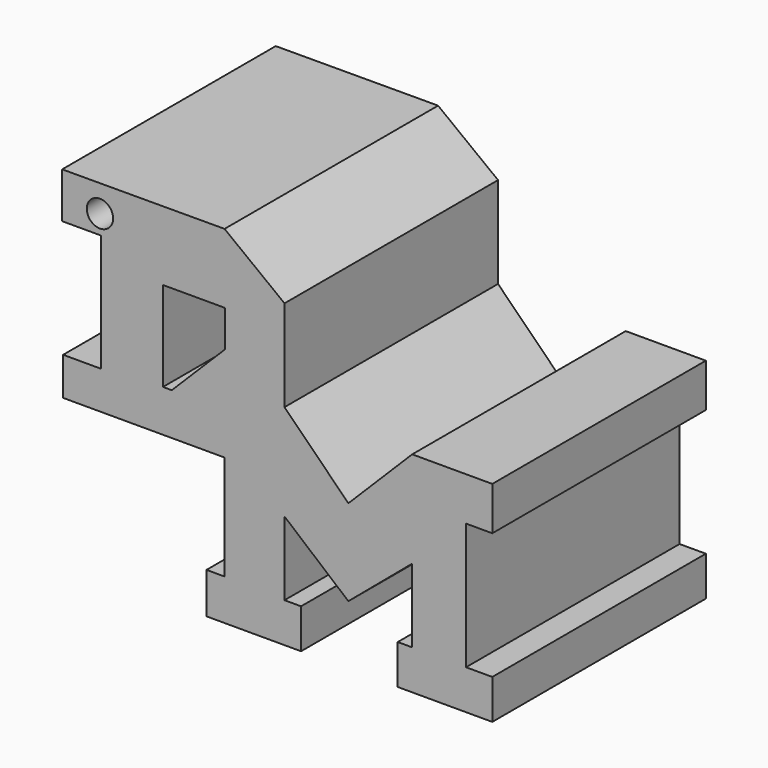
from build123d import *

# Parameters (mm, degrees)
F0_W     = 5.919209
F0_H     = 8.541538
F0_R     = 1.251395
F1_DEPTH = 12.7
F2_SIZE  = 5.08


with BuildPart() as f1:
    # F0 (on Front) → F1 (new body, symmetric)
    with BuildSketch(Plane.XZ):
        Polygon((-5.705478, 19.156427), (-21.156731, 19.119902), (-21.156731, 17.007546), (-21.156731, 14.773603), (-17.477301, 14.774974), (-17.477301, 3.613727), (-21.065827, 3.613727), (-21.065827, 0), (-5.71827, 0), (-3.851344, 0), (0, 6.075916), (0, 14.774974), align=None)
        with Locations((-8.607242, 8.278721)):
            Rectangle(F0_W, F0_H, mode=Mode.SUBTRACT)
        with Locations((-17.562349, 16.578252)):
            Circle(F0_R, mode=Mode.SUBTRACT)
        Polygon((6.075916, 0), (0, 6.075916), (-3.851344, 0), (-5.71827, 0), (-5.71827, -2.018174), (-5.71827, -9.968552), (-7.422996, -9.968552), (-7.422996, -13.863573), (1.574568, -13.863573), (1.574568, -10.095728), (0, -10.095728), (0, -3.080508), (6.075916, -8.201027), (12.151833, -3.080508), (12.151833, -10.095728), (10.774577, -10.095728), (10.774577, -13.863573), (19.772141, -13.863573), (19.772141, -10.095728), (17.274087, -10.095728), (17.274087, 1.940169), (19.772141, 1.940169), (19.772141, 6.075916), (12.151833, 6.075916), align=None)
    extrude(amount=F1_DEPTH, both=True)

    # F2
    f2_edges = [f1.edges().sort_by_distance(p)[0] for p in [
        (-5.647637, 0, 4.007952),
    ]]
    chamfer(f2_edges, length=F2_SIZE)


solid = f1.part
